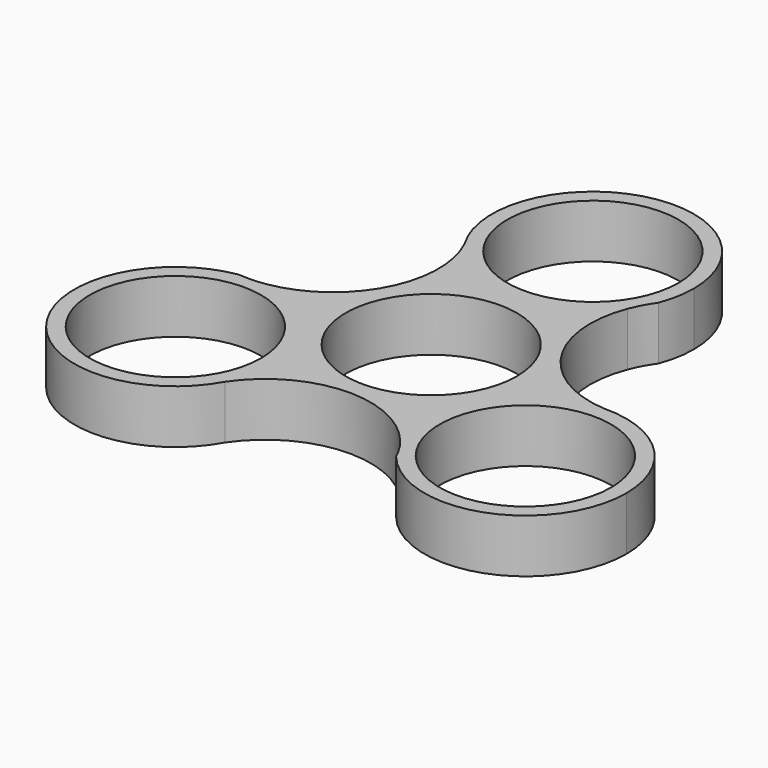
from build123d import *

# Parameters (mm, degrees)
F0_R     = 11.2
F1_DEPTH = 7


with BuildPart() as f1:
    # F0 (on Top) → F1 (new body)
    with BuildSketch(Plane.XY):
        with BuildLine():
            ThreePointArc((10.7021122198, 18.6968422234), (-0.5422472508, 13.2348722376), (-11.3002873201, 19.6014498033))
            ThreePointArc((-11.3002873201, 19.6014498033), (-11.4523002147, 7.174513382), (-21.5429964459, -0.0801200552))
            ThreePointArc((-21.5429964459, -0.0801200552), (-13.0872891968, -4.3647255945), (-9.6836214048, -13.2118649781))
            ThreePointArc((-9.6836214048, -13.2118649781), (-10.1006046851, -16.5034426461), (-11.3252098206, -19.5870607909))
            ThreePointArc((-11.3252098206, -19.5870607909), (-0.4871607413, -13.5052396087), (10.8408842261, -18.6167221682))
            ThreePointArc((10.8408842261, -18.6167221682), (11.7328591991, -6.1478362245), (22.6254971407, -0.0143890124))
            ThreePointArc((22.6254971407, -0.0143890124), (11.939460956, 6.3307262267), (10.7021122198, 18.6968422234))
        make_face()
        Circle(F0_R, mode=Mode.SUBTRACT)
        with BuildLine():
            ThreePointArc((36.0836214048, -13.2118649781), (32.1257196436, -3.7872365959), (22.6254971407, -0.0143890124))
            ThreePointArc((22.6254971407, -0.0143890124), (11.7328591991, -6.1478362245), (10.8408842261, -18.6167221682))
            ThreePointArc((10.8408842261, -18.6167221682), (11.8436088022, -20.0321775662), (12.6606387996, -21.5623515899))
            ThreePointArc((12.6606387996, -21.5623515899), (27.3162633715, -25.6453554451), (36.0836214048, -13.2118649781))
        make_face()
        with Locations((22.8836214048, -13.2118649781)):
            Circle(F0_R, mode=Mode.SUBTRACT)
        with BuildLine():
            ThreePointArc((-9.6836214048, -13.2118649781), (-13.0872891968, -4.3647255945), (-21.5429964459, -0.0801200552))
            ThreePointArc((-21.5429964459, -0.0801200552), (-23.2701790666, -0.2407773121), (-25.0038636419, -0.1832590336))
            ThreePointArc((-25.0038636419, -0.1832590336), (-33.6723488929, -20.8173471578), (-11.3252098206, -19.5870607909))
            ThreePointArc((-11.3252098206, -19.5870607909), (-10.1006046851, -16.5034426461), (-9.6836214048, -13.2118649781))
        make_face()
        with Locations((-22.8836214048, -13.2118649781)):
            Circle(F0_R, mode=Mode.SUBTRACT)
        with BuildLine():
            ThreePointArc((12.3432248424, 21.7456106235), (12.9840395856, 24.0457652717), (13.2, 26.4237299562))
            ThreePointArc((13.2, 26.4237299562), (-3.5409184808, 39.1399360064), (-11.3002873201, 19.6014498033))
            ThreePointArc((-11.3002873201, 19.6014498033), (-0.5422472508, 13.2348722376), (10.7021122198, 18.6968422234))
            ThreePointArc((10.7021122198, 18.6968422234), (11.4265702643, 20.2729548783), (12.3432248424, 21.7456106235))
        make_face()
        with Locations((0, 26.4237299562)):
            Circle(F0_R, mode=Mode.SUBTRACT)
    extrude(amount=F1_DEPTH)


solid = f1.part
